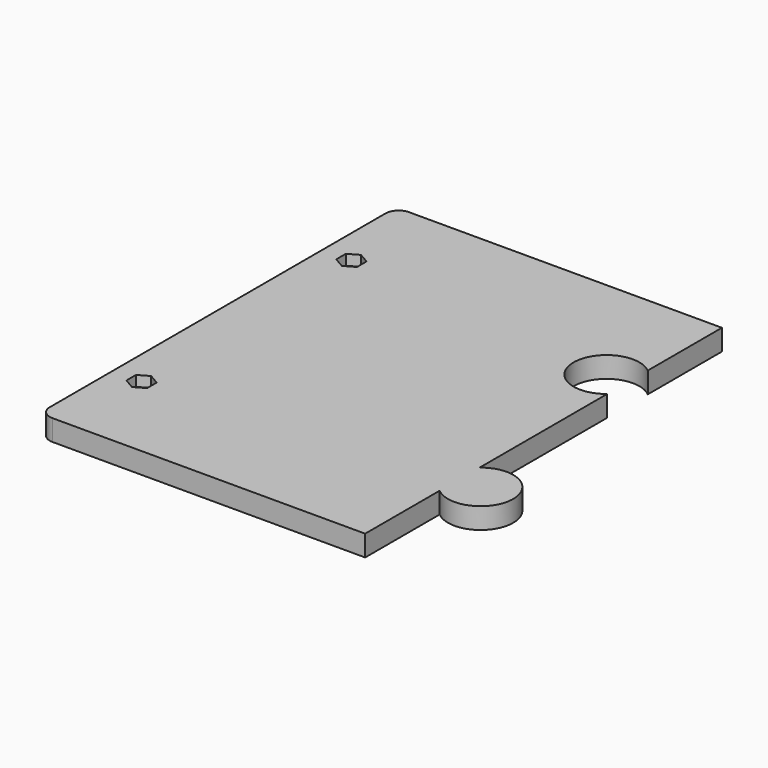
from build123d import *

# Parameters (mm, degrees)
SKETCH_R     = 2.6
PAD_DEPTH    = 8
FILLET_R     = 5
POCKET_DEPTH = 4


with BuildPart() as part:
    # Sketch → Pad (new body)
    with BuildSketch(Plane.XY):
        with BuildLine():
            Line((-62.125, -85), (-62.125, 85))
            Line((-62.125, 85), (62.125, 85))
            Line((62.125, 85), (62.125, 49.669669))
            ThreePointArc((62.125, 49.669669), (41.575, 40), (62.125, 30.330331))
            Line((62.125, 30.330331), (62.125, -30.460477))
            ThreePointArc((62.125, -49.539523), (82.575, -40), (62.125, -30.460477))
            Line((62.125, -49.539523), (62.125, -85))
            Line((62.125, -85), (-62.125, -85))
        make_face()
        with Locations((-51.125, 50)):
            Circle(SKETCH_R, mode=Mode.SUBTRACT)
        with Locations((-51.125, -50)):
            Circle(SKETCH_R, mode=Mode.SUBTRACT)
    extrude(amount=PAD_DEPTH)

    # Fillet
    fillet_edges = [part.edges().sort_by_distance(p)[0] for p in [
        (-62.125, 85, 4),
        (-62.125, -85, 4),
    ]]
    fillet(fillet_edges, radius=FILLET_R)

    # Sketch001 (on Face5 of Fillet) → Pocket (cut)
    with BuildSketch(Plane.XY.offset(8)):
        Polygon((-47.175, 52.280534), (-51.125, 54.561067), (-55.075, 52.280534), (-55.075, 47.719466), (-51.125, 45.438933), (-47.175, 47.719466), align=None)
        Polygon((-47.175, -47.719466), (-51.125, -45.438933), (-55.075, -47.719466), (-55.075, -52.280534), (-51.125, -54.561067), (-47.175, -52.280534), align=None)
    extrude(amount=-POCKET_DEPTH, mode=Mode.SUBTRACT)


solid = part.part
